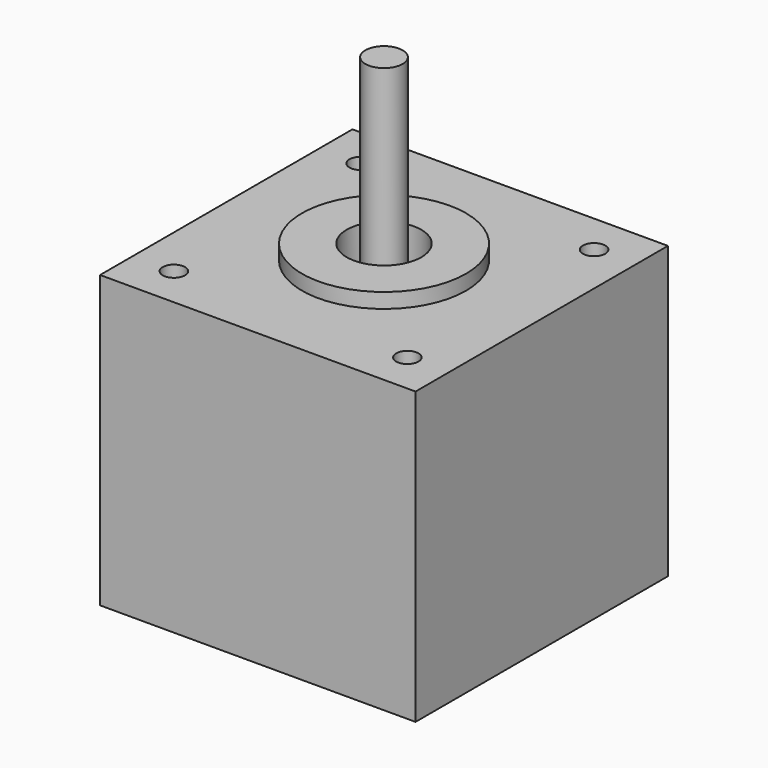
from build123d import *

# Parameters (mm, degrees)
F0_W      = 42.3
F0_H      = 42.3
F1_DEPTH  = 39
F2_R      = 11
F3_DEPTH  = 2
F4_R      = 1.5
F5_DEPTH  = 4.5
F6_R      = 1.5
F7_DEPTH  = 4.5
F8_R      = 1.5
F9_DEPTH  = 4.5
F10_R     = 1.5
F11_DEPTH = 4.5
F12_R     = 5
F13_DEPTH = 5
F14_R     = 2.5
F15_DEPTH = 27


with BuildPart() as f1:
    # F0 (on Top) → F1 (new body)
    with BuildSketch(Plane.XY):
        Rectangle(F0_W, F0_H)
    extrude(amount=F1_DEPTH)

    # F2 (on face) → F3 (join)
    with BuildSketch(Plane.XY.offset(39)):
        Circle(F2_R)
    extrude(amount=F3_DEPTH)

    # F4 (on face) → F5 (cut)
    with BuildSketch(Plane.XY.offset(39)):
        with Locations((15.65, 15.65)):
            Circle(F4_R)
    extrude(amount=-F5_DEPTH, mode=Mode.SUBTRACT)

    # F6 (on face) → F7 (cut)
    with BuildSketch(Plane.XY.offset(39)):
        with Locations((15.65, -15.65)):
            Circle(F6_R)
    extrude(amount=-F7_DEPTH, mode=Mode.SUBTRACT)

    # F8 (on face) → F9 (cut)
    with BuildSketch(Plane.XY.offset(39)):
        with Locations((-15.65, -15.65)):
            Circle(F8_R)
    extrude(amount=-F9_DEPTH, mode=Mode.SUBTRACT)

    # F10 (on face) → F11 (cut)
    with BuildSketch(Plane.XY.offset(39)):
        with Locations((-15.65, 15.65)):
            Circle(F10_R)
    extrude(amount=-F11_DEPTH, mode=Mode.SUBTRACT)

    # F12 (on face) → F13 (cut)
    with BuildSketch(Plane.XY.offset(41)):
        Circle(F12_R)
    extrude(amount=-F13_DEPTH, mode=Mode.SUBTRACT)

    # F14 (on face) → F15 (join)
    with BuildSketch(Plane.XY.offset(36)):
        Circle(F14_R)
    extrude(amount=F15_DEPTH)


solid = f1.part
